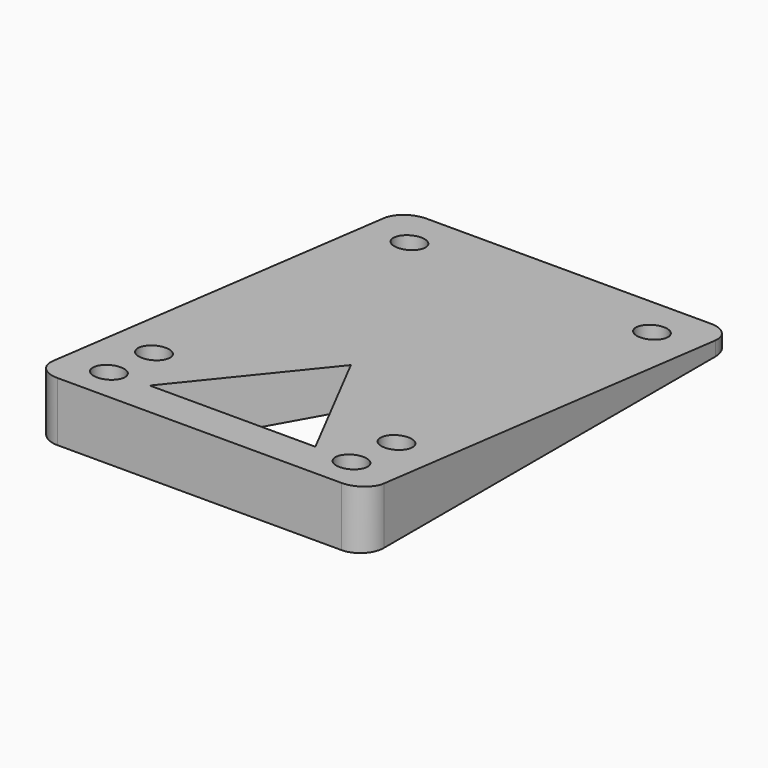
from build123d import *

# Parameters (mm, degrees)
F0_R          = 2.5
F1_DEPTH      = 20
F3_DEPTH      = 25
F5_DEPTH      = 33.15069
F5_DEPTH_BACK = 22.85131


with BuildPart() as f1:
    # F0 (on Top) → F1 (new body)
    with BuildSketch(Plane.XY):
        with BuildLine():
            Line((29.14969, 36.637019), (-18.85031, 36.637019))
            ThreePointArc((-18.85031, 36.637019), (-21.678737, 35.465446), (-22.85031, 32.637019))
            Line((-22.85031, 32.637019), (-22.85031, -37.362981))
            ThreePointArc((-22.85031, -37.362981), (-21.678737, -40.191408), (-18.85031, -41.362981))
            Line((-18.85031, -41.362981), (29.14969, -41.362981))
            ThreePointArc((29.14969, -41.362981), (31.978117, -40.191408), (33.14969, -37.362981))
            Line((33.14969, -37.362981), (33.14969, 32.637019))
            ThreePointArc((33.14969, 32.637019), (31.978117, 35.465446), (29.14969, 36.637019))
        make_face()
        with Locations((-15.35031, -34.862981)):
            Circle(F0_R, mode=Mode.SUBTRACT)
        with Locations((-15.35031, -25.337981)):
            Circle(F0_R, mode=Mode.SUBTRACT)
        with Locations((25.64969, -34.862981)):
            Circle(F0_R, mode=Mode.SUBTRACT)
        with Locations((25.64969, -25.337981)):
            Circle(F0_R, mode=Mode.SUBTRACT)
        with Locations((-15.35031, 28.637019)):
            Circle(F0_R, mode=Mode.SUBTRACT)
        with Locations((25.64969, 28.637019)):
            Circle(F0_R, mode=Mode.SUBTRACT)
    extrude(amount=F1_DEPTH)

    # F2 (on face) → F3 (cut)
    with BuildSketch(Plane.XY.offset(20)):
        Polygon((5.14969, -9.362981), (-8.85031, -34.362981), (19.14969, -34.362981), align=None)
    extrude(amount=-F3_DEPTH, mode=Mode.SUBTRACT)

    # F4 (on Right) → F5 (cut, two sides)
    with BuildSketch(Plane.YZ) as f5_sk:
        Polygon((36.637019, 2), (36.637019, 20), (-41.362981, 20), (-41.362981, 10), align=None)
    extrude(amount=F5_DEPTH, mode=Mode.SUBTRACT)
    extrude(f5_sk.sketch, amount=-F5_DEPTH_BACK, mode=Mode.SUBTRACT)


solid = f1.part
